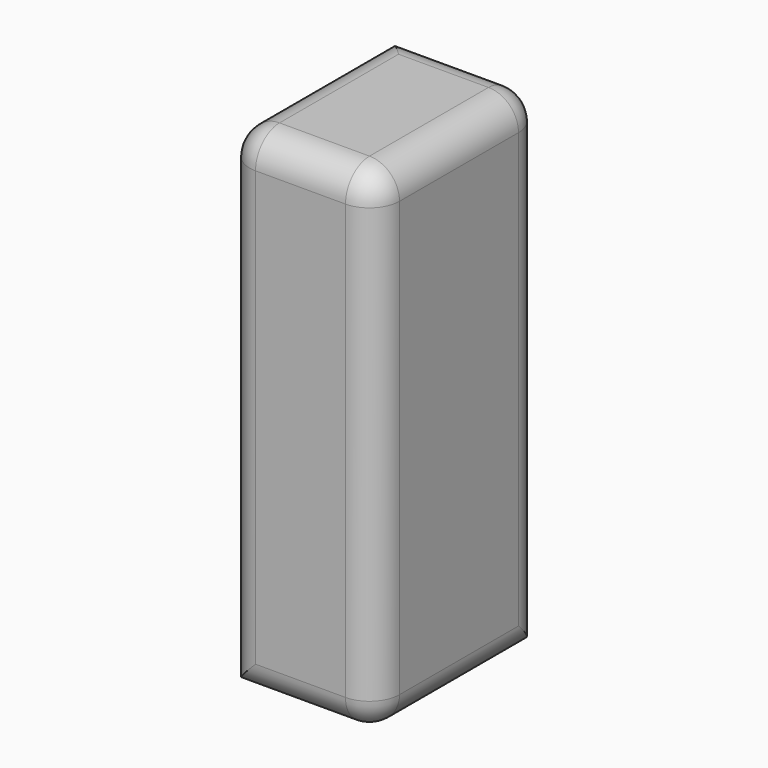
from build123d import *

# Parameters (mm, degrees)
F0_W     = 35.353254
F0_H     = 83.731398
F1_DEPTH = 25.4
F2_R     = 5.08


with BuildPart() as f1:
    # F0 (on Right) → F1 (new body)
    with BuildSketch(Plane.YZ):
        Rectangle(F0_W, F0_H)
    extrude(amount=F1_DEPTH)

    # F2
    f2_edges = [f1.edges().sort_by_distance(p)[0] for p in [
        (12.7, -17.676627, 41.865699),
        (25.4, 0, 41.865699),
        (12.7, 17.676627, 41.865699),
        (0, 0, 41.865699),
        (25.4, -17.676627, 0),
        (25.4, 17.676627, 0),
        (0, -17.676627, 0),
        (12.7, -17.676627, -41.865699),
        (25.4, 0, -41.865699),
    ]]
    fillet(f2_edges, radius=F2_R)


solid = f1.part
